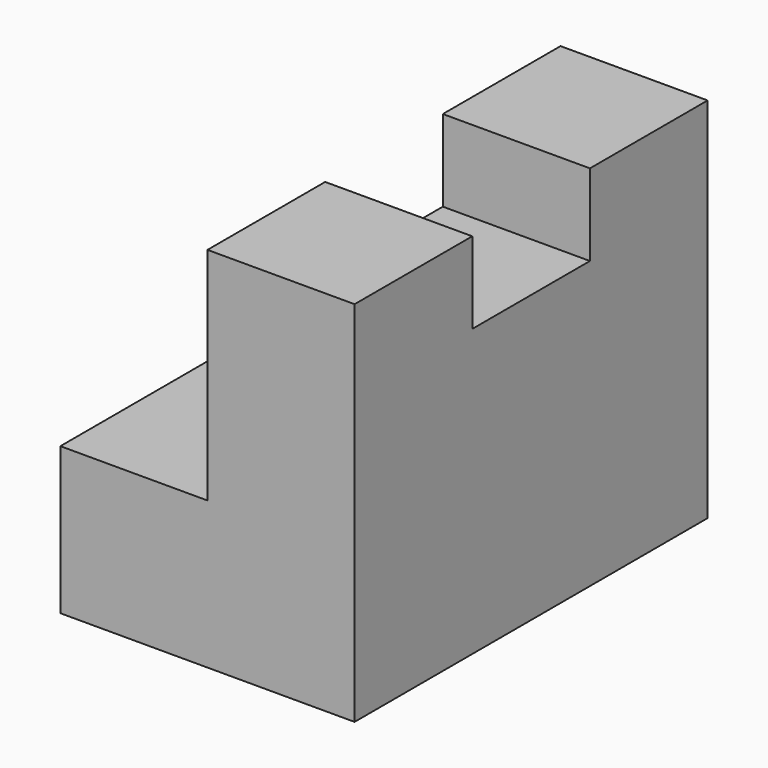
from build123d import *

# Parameters (mm, degrees)
F0_W     = 38.1
F0_H     = 31.75
F1_DEPTH = 25.4
F2_W     = 12.7
F2_H     = 19.05
F3_DEPTH = 38.1
F4_W     = 12.7
F4_H     = 7.042224
F5_DEPTH = 25.4


with BuildPart() as f1:
    # F0 (on Right) → F1 (new body)
    with BuildSketch(Plane.YZ):
        with Locations((-19.05, 15.875)):
            Rectangle(F0_W, F0_H)
    extrude(amount=F1_DEPTH)

    # F2 (on face) → F3 (cut)
    with BuildSketch(Plane.XZ.offset(38.1)):
        with Locations((6.35, 22.225)):
            Rectangle(F2_W, F2_H)
    extrude(amount=-F3_DEPTH, mode=Mode.SUBTRACT)

    # F4 (on face) → F5 (cut)
    with BuildSketch(Plane(origin=(12.7, 0, 0), x_dir=(0, -1, 0), z_dir=(-1, 0, 0))):
        with Locations((19.05, 28.228888)):
            Rectangle(F4_W, F4_H)
    extrude(amount=-F5_DEPTH, mode=Mode.SUBTRACT)


solid = f1.part
